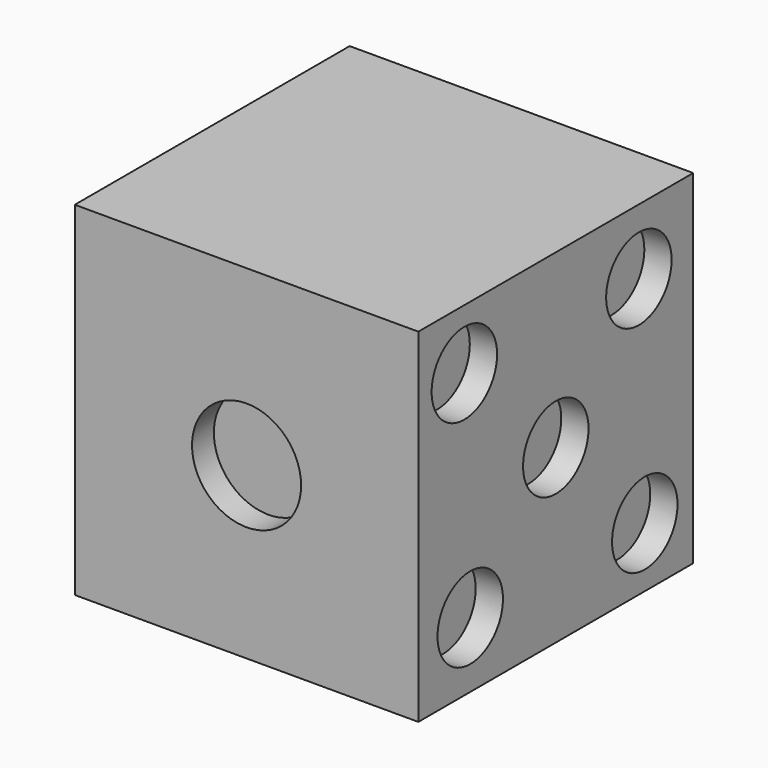
from build123d import *

# Parameters (mm, degrees)
F0_W      = 16
F0_H      = 16
F1_DEPTH  = 16
F2_R      = 2.54
F2_R_2    = 0.083649
F3_DEPTH  = 1.27
F3_FACE_R = 0.083649
F4_DEPTH  = 1.27
F5_R      = 2.54
F6_DEPTH  = 1.27
F7_DEPTH  = 1.27
F8_R      = 1.905
F8_R_2    = 1.900447
F9_DEPTH  = 1.27
F10_R     = 1.905
F11_DEPTH = 1.27
F12_R     = 1.872316
F12_R_2   = 1.905
F14_DEPTH = 1.27


with BuildPart() as f1:
    # F0 (on Front) → F1 (new body)
    with BuildSketch(Plane.XZ):
        with Locations((30.6324, 48.480009)):
            Rectangle(F0_W, F0_H)
    extrude(amount=-F1_DEPTH)

    # F2 (on face) → F3 (cut)
    with BuildSketch(Plane.XZ):
        with Locations((30.6324, 48.39636)):
            Circle(F2_R)
        with Locations((30.6324, 48.39636)):
            Circle(F2_R_2, mode=Mode.SUBTRACT)
    extrude(amount=-F3_DEPTH, mode=Mode.SUBTRACT)

    # F3_face (on face) → F4 (cut)
    with BuildSketch(Plane(origin=(30.6324, 0, 48.39636), x_dir=(1, 0, 0), z_dir=(0, -1, 0))):
        Circle(F3_FACE_R)
    extrude(amount=-F4_DEPTH, mode=Mode.SUBTRACT)

    # F5 (on face) → F6 (cut)
    with BuildSketch(Plane(origin=(22.6324, 0, 0), x_dir=(0, -1, 0), z_dir=(-1, 0, 0))):
        with Locations((-11.092744, 52.449955)):
            Circle(F5_R)
    extrude(amount=-F6_DEPTH, mode=Mode.SUBTRACT)

    # F5 (on face) → F7 (cut)
    with BuildSketch(Plane(origin=(22.6324, 0, 0), x_dir=(0, -1, 0), z_dir=(-1, 0, 0))):
        with Locations((-11.092744, 52.449955)):
            Circle(F5_R)
        with Locations((-5.08, 44.290009)):
            Circle(F5_R)
    extrude(amount=-F7_DEPTH, mode=Mode.SUBTRACT)

    # F8 (on face) → F9 (cut)
    with BuildSketch(Plane(origin=(0, 16, 0), x_dir=(-1, 0, 0), z_dir=(0, 1, 0))):
        with Locations((-34.8224, 52.924009)):
            Circle(F8_R)
        with Locations((-34.8224, 48.352009)):
            Circle(F8_R)
        with Locations((-34.8224, 43.780009)):
            Circle(F8_R)
        with Locations((-26.4424, 52.926009)):
            Circle(F8_R_2)
        with Locations((-26.4424, 43.782009)):
            Circle(F8_R)
        with Locations((-26.4424, 48.354009)):
            Circle(F8_R)
    extrude(amount=-F9_DEPTH, mode=Mode.SUBTRACT)

    # F10 (on face) → F11 (cut)
    with BuildSketch(Plane.YZ.offset(38.6324)):
        with Locations((8, 48.480009)):
            Circle(F10_R)
        with Locations((2.677711, 53.688009)):
            Circle(F10_R)
        with Locations((12.837711, 53.432009)):
            Circle(F10_R)
        with Locations((13.179603, 43.272009)):
            Circle(F10_R)
        with Locations((3.019603, 43.528009)):
            Circle(F10_R)
    extrude(amount=-F11_DEPTH, mode=Mode.SUBTRACT)

    # F12 (on face) → F14 (cut)
    with BuildSketch(Plane(origin=(0, 0, 40.480009), x_dir=(1, 0, 0), z_dir=(0, 0, -1))):
        with Locations((35.3324, -11.43)):
            Circle(F12_R)
        with Locations((30.5064, -7.72982)):
            Circle(F12_R_2)
        with Locations((26.4424, -3.360859)):
            Circle(F12_R_2)
    extrude(amount=-F14_DEPTH, mode=Mode.SUBTRACT)


solid = f1.part
